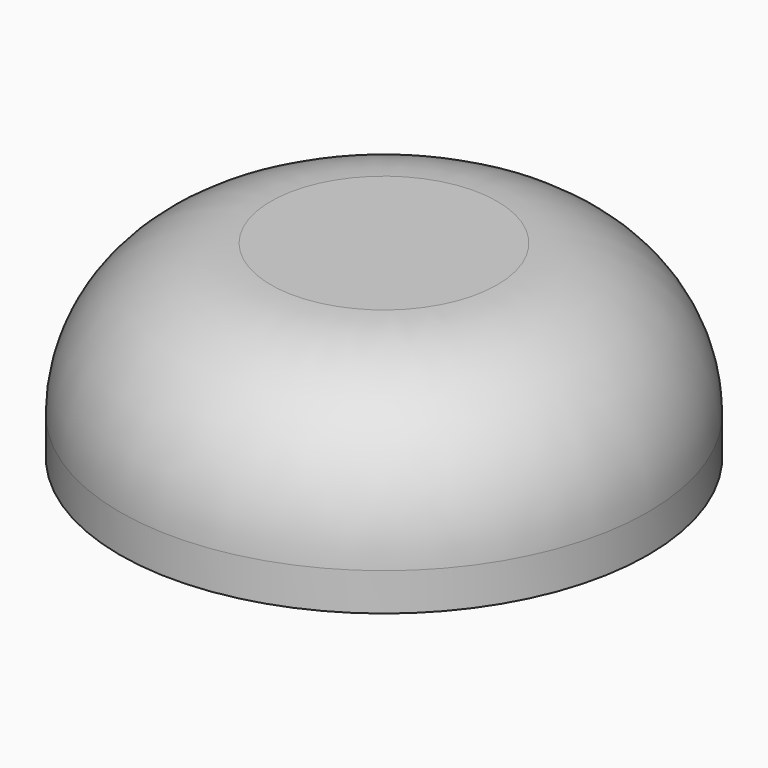
from build123d import *

# Parameters (mm, degrees)
F0_R     = 5.334
F0_R_2   = 1.778
F1_DEPTH = 3.81
F2_R     = 3.048
F3_DEPTH = 3.302


with BuildPart() as f1:
    # F0 (on Top) → F1 (new body)
    with BuildSketch(Plane.XY):
        Circle(F0_R)
        Circle(F0_R_2, mode=Mode.SUBTRACT)
        Circle(F0_R_2)
    extrude(amount=F1_DEPTH)

    # F2
    f2_edges = [f1.edges().sort_by_distance(p)[0] for p in [
        (-5.334, 0, 3.81),
    ]]
    fillet(f2_edges, radius=F2_R)

    # F0 (on Top) → F3 (cut)
    with BuildSketch(Plane.XY):
        Circle(F0_R_2)
    extrude(amount=F3_DEPTH, mode=Mode.SUBTRACT)


solid = f1.part
